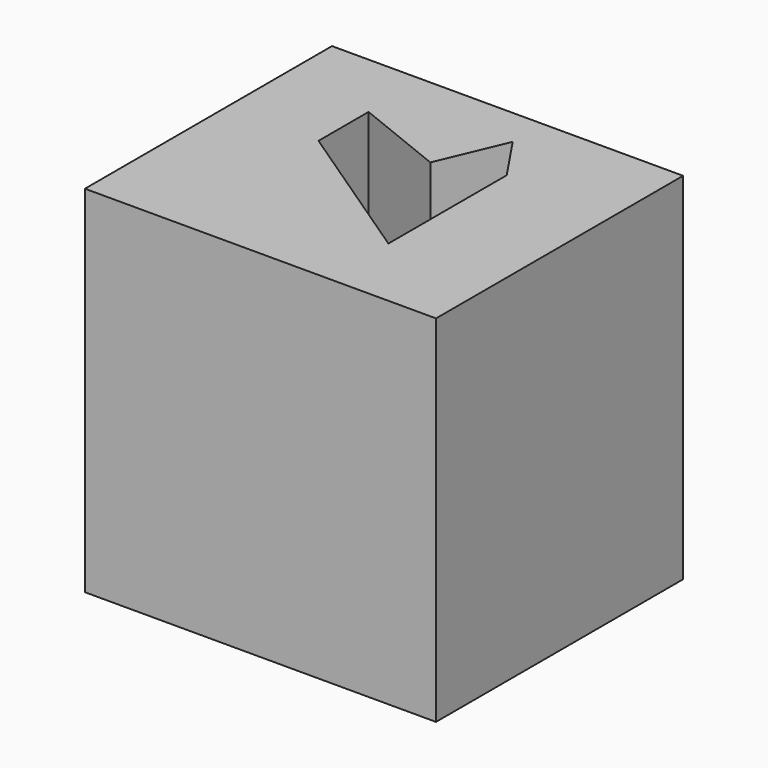
from build123d import *

# Parameters (mm, degrees)
F0_W     = 75.311
F0_H     = 66.2432
F1_DEPTH = 38.1
F3_DEPTH = 25.4


with BuildPart() as f1:
    # F0 (on Top) → F1 (new body, symmetric)
    with BuildSketch(Plane.XY):
        Rectangle(F0_W, F0_H)
    extrude(amount=F1_DEPTH, both=True)

    # F2 (on face) → F3 (cut)
    with BuildSketch(Plane.XY.offset(38.1)):
        Polygon((-17.954314, 18.302942), (-17.954314, 4.880785), (14.468038, -16.908431), (14.468038, 14.816666), (7.668021, 24.922636), (1.568823, 10.458824), align=None)
    extrude(amount=-F3_DEPTH, mode=Mode.SUBTRACT)


solid = f1.part
